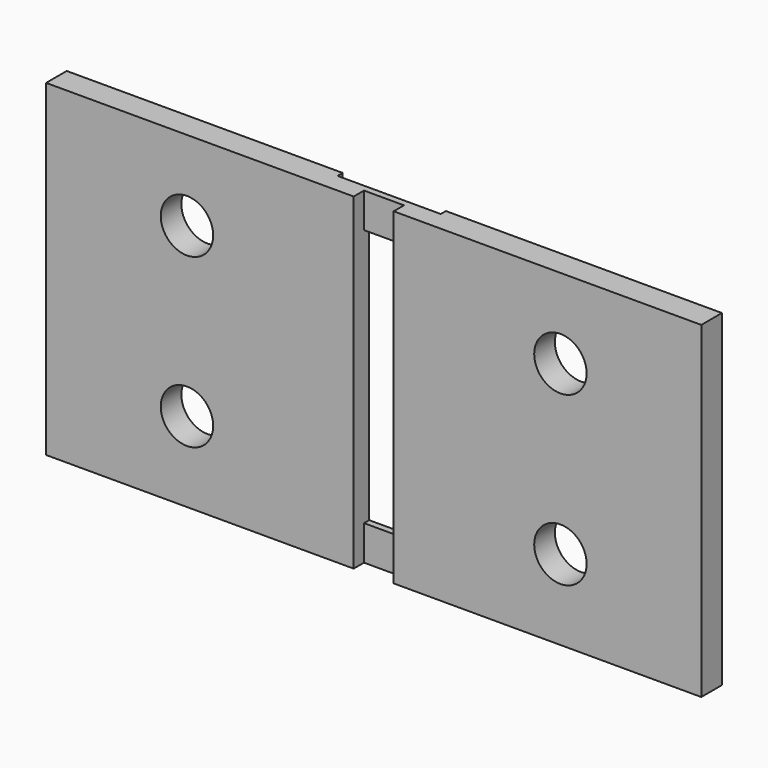
from build123d import *

# Parameters (mm, degrees)
F0_W     = 25.4
F0_H     = 12.7
F1_DEPTH = 1
F3_D     = 2.032
F4_W     = 4
F4_H     = 12.7
F5_DEPTH = 0.25
F6_W     = 1.55
F6_H     = 12.7
F7_DEPTH = 0.5
F8_W     = 1.55
F8_H     = 10
F9_DEPTH = 0.25


with BuildPart() as f1:
    # F0 (on Front) → F1 (new body)
    with BuildSketch(Plane.XZ):
        Rectangle(F0_W, F0_H)
    extrude(amount=F1_DEPTH)

    # F3 (through all)
    with Locations(Plane(origin=(0, 0, 0), x_dir=(1, 0, 0), z_dir=(0, 1, 0))):
        with Locations((-7.239, 3.2512), (7.239, 3.2512), (7.239, -3.2512), (-7.239, -3.2512)):
            Hole(F3_D / 2)

    # F4 (on Front) → F5 (cut)
    with BuildSketch(Plane.XZ):
        Rectangle(F4_W, F4_H)
    extrude(amount=F5_DEPTH, mode=Mode.SUBTRACT)

    # F6 (on face) → F7 (cut)
    with BuildSketch(Plane.XZ.offset(1)):
        Rectangle(F6_W, F6_H)
    extrude(amount=-F7_DEPTH, mode=Mode.SUBTRACT)

    # F8 (on face) → F9 (cut)
    with BuildSketch(Plane.XZ.offset(0.5)):
        Rectangle(F8_W, F8_H)
    extrude(amount=-F9_DEPTH, mode=Mode.SUBTRACT)


solid = f1.part
